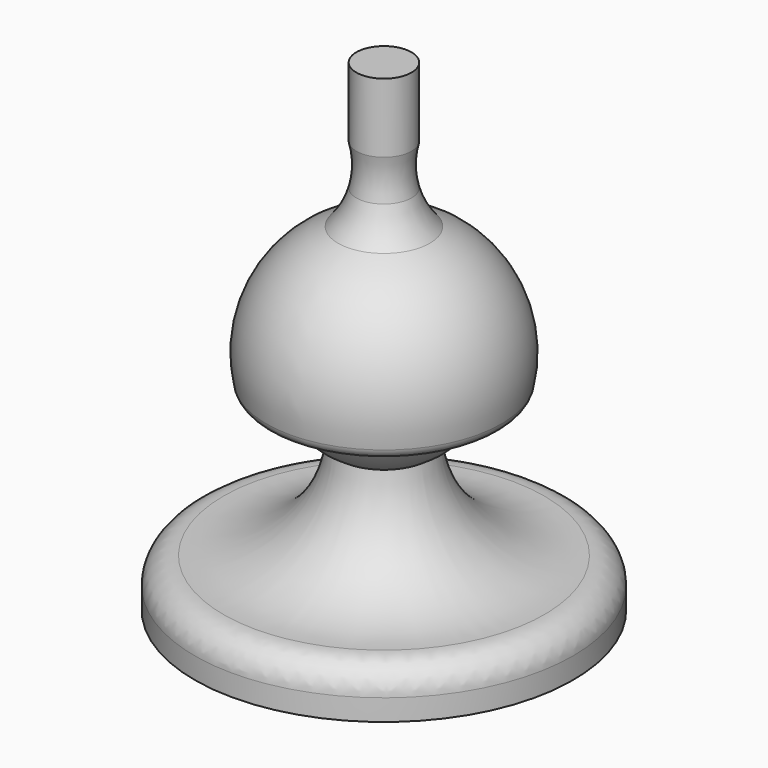
from build123d import *

# Parameters (mm, degrees)
F3_R = 5


with BuildPart() as f1:
    # F0 (on Right) → F1 (revolve)
    with BuildSketch(Plane.YZ):
        with BuildLine():
            Line((-35, 0), (0, 0))
            Line((0, 0), (0, 25))
            ThreePointArc((0, 25), (-4.3999237667, 25.5792609531), (-8.5, 27.2775681357))
            ThreePointArc((-8.5, 27.2775681357), (-17.5116356565, 12.138062773), (-35, 10))
            Line((-35, 10), (-35, 0))
        make_face()
        with BuildLine():
            ThreePointArc((-8.5, 27.2775681357), (-4.3999237667, 25.5792609531), (0, 25))
            Line((0, 25), (0, 59))
            ThreePointArc((0, 59), (-16.4207390469, 46.3999237667), (-8.5, 27.2775681357))
        make_face()
    revolve(axis=Axis((0, 0, 29.5), (0, 0, -1)))

    # F3
    f3_edges = [f1.edges().sort_by_distance(p)[0] for p in [
        (0, 35, 10),
    ]]
    fillet(f3_edges, radius=F3_R)


with BuildPart() as f2:
    # F0 (on Right) → F2 (revolve)
    with BuildSketch(Plane.YZ):
        with BuildLine():
            ThreePointArc((-16.8241387326, 38.4239189179), (-13.3669105371, 52.8243107261), (0, 59.2))
            Line((0, 59.2), (0, 64.1999988259))
            ThreePointArc((0, 64.1999988259), (-2.5672232165, 64.0510614898), (-5.1, 63.6062478897))
            ThreePointArc((-5.1, 63.6062478897), (-6.822124158, 63.1257797452), (-8.5, 62.5082897354))
            ThreePointArc((-8.5, 62.5082897354), (-19.6478403175, 52.3345207305), (-21.7148755879, 37.384360708))
            Line((-21.7148755879, 37.384360708), (-16.8241387326, 38.4239189179))
        make_face()
        with BuildLine():
            ThreePointArc((-8.5, 62.5082897354), (-6.822124158, 63.1257797452), (-5.1, 63.6062478897))
            Line((-5.1, 63.6062478897), (-5.1, 68.7759750366))
            ThreePointArc((-5.1, 68.7759750366), (-6.4221554839, 65.437164955), (-8.5, 62.5082897354))
        make_face()
        with BuildLine():
            ThreePointArc((-5.1, 63.6062478897), (-2.5672232165, 64.0510614898), (0, 64.1999988259))
            Line((0, 64.1999988259), (0, 89.1999988259))
            Line((0, 89.1999988259), (-5.1, 89.1999988259))
            Line((-5.1, 89.1999988259), (-5.1, 76.4031233578))
            ThreePointArc((-5.1, 76.4031233578), (-4.6071241851, 72.5895491972), (-5.1, 68.7759750366))
            Line((-5.1, 68.7759750366), (-5.1, 63.6062478897))
        make_face()
        with BuildLine():
            ThreePointArc((-21.7148755879, 37.384360708), (-18.7497280552, 35.4587713853), (-16.8241387326, 38.4239189179))
            Line((-16.8241387326, 38.4239189179), (-21.7148755879, 37.384360708))
        make_face()
    revolve(axis=Axis((0, 0, 76.6999988259), (0, 0, -1)))


solid = Compound([f1.part, f2.part])
